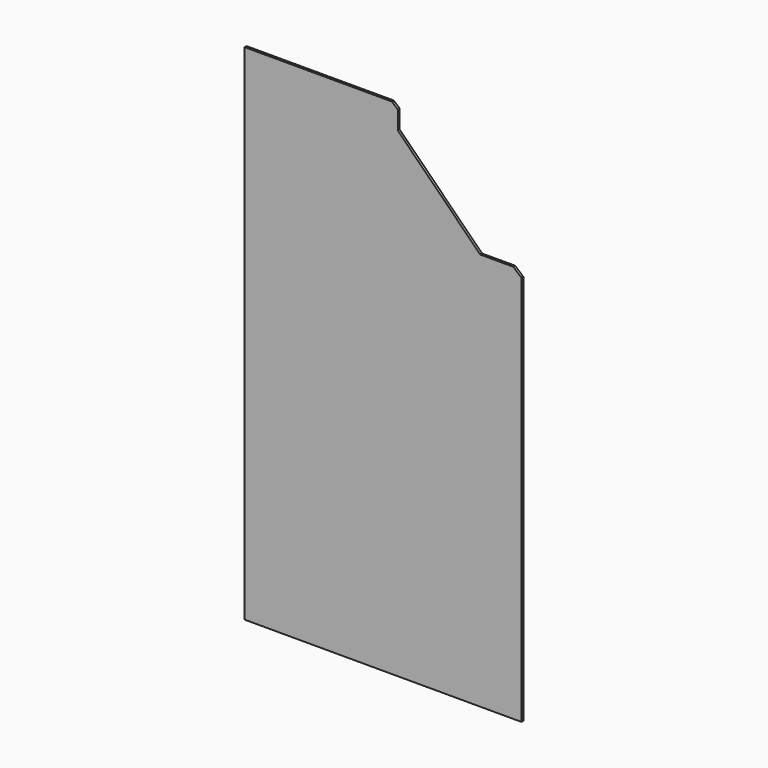
from build123d import *

# Parameters (mm, degrees)
F0_W     = 235
F0_H     = 428
F1_DEPTH = 2
F2_SIZE2 = 96
F2_SIZE  = 110
F4_DEPTH = 25


with BuildPart() as f1:
    # F0 (on Front) → F1 (new body)
    with BuildSketch(Plane.XZ):
        with Locations((-11.5827983245, 118.5401997186)):
            Rectangle(F0_W, F0_H)
    extrude(amount=F1_DEPTH)

    # F2
    f2_edges = [f1.edges().sort_by_distance(p)[0] for p in [
        (105.917202, -1, 332.5402),
    ]]
    f2_side = f1.faces().sort_by_distance((-11.582798, -1, 332.5402))[0]
    chamfer(f2_edges, length=F2_SIZE, length2=F2_SIZE2, reference=f2_side)

    # F3 (on face) → F4 (cut)
    with BuildSketch(Plane.XZ.offset(2)):
        Polygon((99.0422016755, 242.5401997186), (0.9172016755, 328.176563355), (0.9172016755, 312.5401997186), (70.9172016755, 242.5401997186), align=None)
    extrude(amount=-F4_DEPTH, mode=Mode.SUBTRACT)


solid = f1.part
